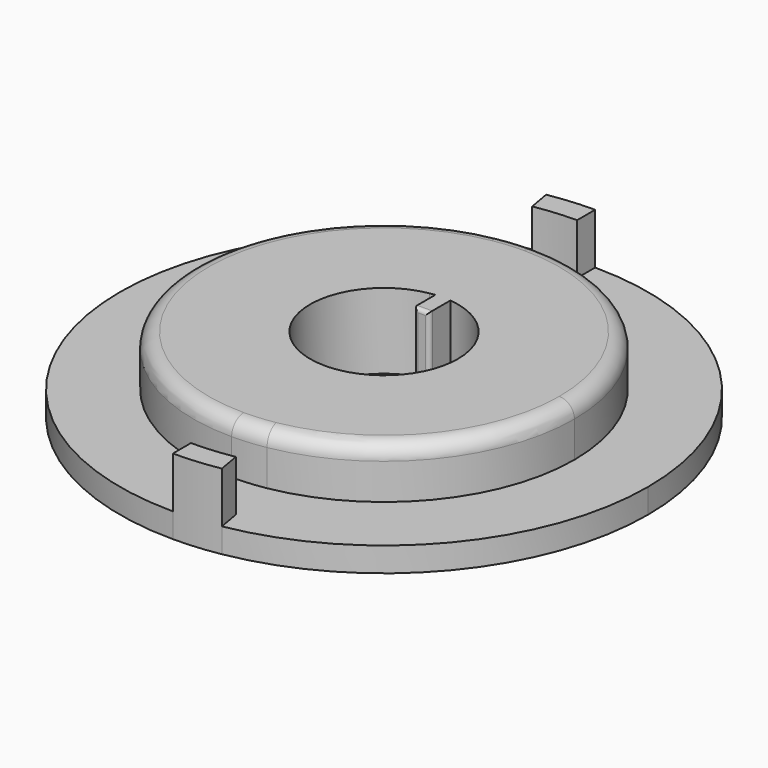
from build123d import *

# Parameters (mm, degrees)
F1_DEPTH = 10
F2_DEPTH = 3.25
F3_R     = 2
F4_R     = 0.5


with BuildPart() as f1:
    # F0 (on Top) → F1 (new body)
    with BuildSketch(Plane.XY):
        with BuildLine():
            Line((-1.7036226104, 9.6511124089), (-4.3864869554, 24.8663921929))
            ThreePointArc((-4.3864869554, 24.8663921929), (-25.1557865961, -2.200686075), (-0.0018704693, -25.2500035706))
            Line((-0.0018704693, -25.2500035706), (-0.0018704693, -9.8000035706))
            ThreePointArc((-0.0018704693, -9.8000035706), (-9.7645785106, -0.8541298496), (-1.7036226104, 9.6511124089))
        make_face()
        with BuildLine():
            Line((-0.0018704693, 9.7999964294), (-0.0018704693, 25.2499964294))
            ThreePointArc((-0.0018704693, 25.2499964294), (-2.2025529737, 25.1539125562), (-4.3864869554, 24.8663921929))
            Line((-4.3864869554, 24.8663921929), (-1.7036226104, 9.6511124089))
            ThreePointArc((-1.7036226104, 9.6511124089), (-1.3536300453, 9.7063214831), (-1.0018704693, 9.7488425149))
            ThreePointArc((-1.0018704693, 9.7488425149), (-0.5025242226, 9.7871995957), (-0.0018704693, 9.7999964294))
        make_face()
        with BuildLine():
            ThreePointArc((4.3827460168, -24.8663993342), (19.3407517195, -16.2303907152), (25.2481295307, -3.5706e-06))
            ThreePointArc((25.2481295307, -3.5706e-06), (17.8525757557, 17.8544426543), (-0.0018704693, 25.2499964294))
            Line((-0.0018704693, 25.2499964294), (-0.0018704693, 9.7999964294))
            ThreePointArc((-0.0018704693, 9.7999964294), (0.4987832841, 9.7871995957), (0.9981295307, 9.7488425149))
            ThreePointArc((0.9981295307, 9.7488425149), (7.2727429225, 6.5665784931), (9.7981295307, -3.5706e-06))
            ThreePointArc((9.7981295307, -3.5706e-06), (7.5053650733, -6.2993221456), (1.6998816719, -9.6511195502))
            Line((1.6998816719, -9.6511195502), (4.3827460168, -24.8663993342))
        make_face()
        with BuildLine():
            ThreePointArc((-0.0018704693, -25.2500035706), (2.1988120351, -25.1539196974), (4.3827460168, -24.8663993342))
            Line((4.3827460168, -24.8663993342), (1.6998816719, -9.6511195502))
            ThreePointArc((1.6998816719, -9.6511195502), (0.8522558097, -9.7627116119), (-0.0018704693, -9.8000035706))
            Line((-0.0018704693, -9.8000035706), (-0.0018704693, -25.2500035706))
        make_face()
        with BuildLine():
            ThreePointArc((0.9981295307, 9.7488425149), (0.4987832841, 9.7871995957), (-0.0018704693, 9.7999964294))
            Line((-0.0018704693, 9.7999964294), (-0.0018704693, 6.2488425149))
            Line((-0.0018704693, 6.2488425149), (0.9981295307, 6.2488425149))
            Line((0.9981295307, 6.2488425149), (0.9981295307, 9.7488425149))
        make_face()
        with BuildLine():
            Line((-0.0018704693, 6.2488425149), (-0.0018704693, 9.7999964294))
            ThreePointArc((-0.0018704693, 9.7999964294), (-0.5025242226, 9.7871995957), (-1.0018704693, 9.7488425149))
            Line((-1.0018704693, 9.7488425149), (-1.0018704693, 6.2488425149))
            Line((-1.0018704693, 6.2488425149), (-0.0018704693, 6.2488425149))
        make_face()
    extrude(amount=F1_DEPTH)

    # F3
    f3_edges = [f1.edges().sort_by_distance(p)[0] for p in [
        (-0.00187, 25.249996, 10),
    ]]
    fillet(f3_edges, radius=F3_R)

    # F4
    f4_edges = [f1.edges().sort_by_distance(p)[0] for p in [
        (0.99813, 6.248843, 5),
        (-1.00187, 6.248843, 5),
        (-0.00187, 6.248843, 10),
        (-0.00187, 6.248843, 0),
    ]]
    fillet(f4_edges, radius=F4_R)


with BuildPart() as f1b:
    # F0 (on Top) → F1, piece 2 (new body)
    with BuildSketch(Plane.XY):
        with BuildLine():
            ThreePointArc((-5.5586121546, 31.5138445258), (-2.7908542372, 31.8782267683), (-0.0018704693, 31.9999964294))
            Line((-0.0018704693, 31.9999964294), (-0.0018704693, 34.9999964294))
            ThreePointArc((-0.0018704693, 34.9999964294), (-3.0523214654, 34.8668108626), (-6.0795566876, 34.4682677848))
            Line((-6.0795566876, 34.4682677848), (-5.5586121546, 31.5138445258))
        make_face()
    extrude(amount=F1_DEPTH)


with BuildPart() as f1c:
    # F0 (on Top) → F1, piece 3 (new body)
    with BuildSketch(Plane.XY):
        with BuildLine():
            Line((6.0758157491, -34.4682749261), (5.5548712161, -31.513851667))
            ThreePointArc((5.5548712161, -31.513851667), (2.7871132987, -31.8782339096), (-0.0018704693, -32.0000035706))
            Line((-0.0018704693, -32.0000035706), (-0.0018704693, -35.0000035706))
            ThreePointArc((-0.0018704693, -35.0000035706), (3.0485805269, -34.8668180038), (6.0758157491, -34.4682749261))
        make_face()
    extrude(amount=F1_DEPTH)


with BuildPart() as f2:
    # F0 (on Top) → F2 (new body)
    with BuildSketch(Plane.XY):
        with BuildLine():
            ThreePointArc((-0.0018704693, -25.2500035706), (-25.1557865961, -2.200686075), (-4.3864869554, 24.8663921929))
            Line((-4.3864869554, 24.8663921929), (-5.5586121546, 31.5138445258))
            ThreePointArc((-5.5586121546, 31.5138445258), (-31.8801008082, -2.7889873386), (-0.0018704693, -32.0000035706))
            Line((-0.0018704693, -32.0000035706), (-0.0018704693, -25.2500035706))
        make_face()
        with BuildLine():
            ThreePointArc((-0.0018704693, -32.0000035706), (-31.8801008082, -2.7889873386), (-5.5586121546, 31.5138445258))
            Line((-5.5586121546, 31.5138445258), (-6.0795566876, 34.4682677848))
            ThreePointArc((-6.0795566876, 34.4682677848), (-34.8686849025, -3.0504545668), (-0.0018704693, -35.0000035706))
            Line((-0.0018704693, -35.0000035706), (-0.0018704693, -32.0000035706))
        make_face()
        with BuildLine():
            ThreePointArc((-4.3864869554, 24.8663921929), (-2.2025529737, 25.1539125562), (-0.0018704693, 25.2499964294))
            Line((-0.0018704693, 25.2499964294), (-0.0018704693, 31.9999964294))
            ThreePointArc((-0.0018704693, 31.9999964294), (-2.7908542372, 31.8782267683), (-5.5586121546, 31.5138445258))
            Line((-5.5586121546, 31.5138445258), (-4.3864869554, 24.8663921929))
        make_face()
        with BuildLine():
            Line((-0.0018704693, 34.9999964294), (-0.0018704693, 31.9999964294))
            ThreePointArc((-0.0018704693, 31.9999964294), (22.6255465287, 22.6274134273), (31.9981295307, -3.5706e-06))
            ThreePointArc((31.9981295307, -3.5706e-06), (24.5115517105, -20.5692070806), (5.5548712161, -31.513851667))
            Line((5.5548712161, -31.513851667), (6.0758157491, -34.4682749261))
            ThreePointArc((6.0758157491, -34.4682749261), (26.8096850399, -22.4975699097), (34.9981295307, -3.5706e-06))
            ThreePointArc((34.9981295307, -3.5706e-06), (24.7468668723, 24.7487337709), (-0.0018704693, 34.9999964294))
        make_face()
        with BuildLine():
            ThreePointArc((-0.0018704693, 25.2499964294), (17.8525757557, 17.8544426543), (25.2481295307, -3.5706e-06))
            ThreePointArc((25.2481295307, -3.5706e-06), (19.3407517195, -16.2303907152), (4.3827460168, -24.8663993342))
            Line((4.3827460168, -24.8663993342), (5.5548712161, -31.513851667))
            ThreePointArc((5.5548712161, -31.513851667), (24.5115517105, -20.5692070806), (31.9981295307, -3.5706e-06))
            ThreePointArc((31.9981295307, -3.5706e-06), (22.6255465287, 22.6274134273), (-0.0018704693, 31.9999964294))
            Line((-0.0018704693, 31.9999964294), (-0.0018704693, 25.2499964294))
        make_face()
        with BuildLine():
            Line((5.5548712161, -31.513851667), (4.3827460168, -24.8663993342))
            ThreePointArc((4.3827460168, -24.8663993342), (2.1988120351, -25.1539196974), (-0.0018704693, -25.2500035706))
            Line((-0.0018704693, -25.2500035706), (-0.0018704693, -32.0000035706))
            ThreePointArc((-0.0018704693, -32.0000035706), (2.7871132987, -31.8782339096), (5.5548712161, -31.513851667))
        make_face()
    extrude(amount=F2_DEPTH)


solid = Compound([f1.part, f1b.part, f1c.part, f2.part])
